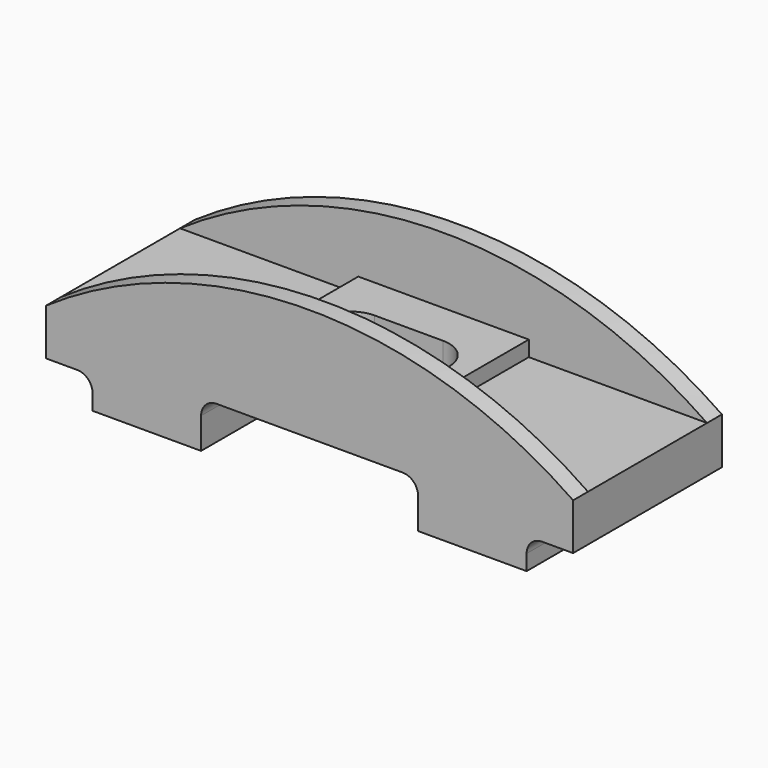
from build123d import *

# Parameters (mm, degrees)
F1_DEPTH = 60
F3_DEPTH = 6
F5_DEPTH = 6
F7_DEPTH = 5
F9_DEPTH = 30.001


with BuildPart() as f1:
    # F0 (on Front) → F1 (new body)
    with BuildSketch(Plane.XZ):
        with BuildLine():
            Line((35, -30), (70, -30))
            Line((70, -30), (70, -25))
            ThreePointArc((70, -25), (71.4644660941, -21.4644660941), (75, -20))
            Line((75, -20), (85, -20))
            Line((85, -20), (85, -5))
            Line((85, -5), (-85, -5))
            Line((-85, -5), (-85, -20))
            Line((-85, -20), (-75, -20))
            ThreePointArc((-75, -20), (-71.4644660941, -21.4644660941), (-70, -25))
            Line((-70, -25), (-70, -30))
            Line((-70, -30), (-35, -30))
            Line((-35, -30), (-35, -20))
            ThreePointArc((-35, -20), (-33.5355339059, -16.4644660941), (-30, -15))
            Line((-30, -15), (30, -15))
            ThreePointArc((30, -15), (33.5355339059, -16.4644660941), (35, -20))
            Line((35, -20), (35, -30))
        make_face()
    extrude(amount=F1_DEPTH)

    # F2 (on face) → F3 (join)
    with BuildSketch(Plane(origin=(0, 0, 0), x_dir=(-1, 0, 0), z_dir=(0, 1, 0))):
        with BuildLine():
            Line((-85, -5), (85, -5))
            ThreePointArc((85, -5), (0, 21.4079290569), (-85, -5))
        make_face()
    extrude(amount=-F3_DEPTH)

    # F4 (on face) → F5 (join)
    with BuildSketch(Plane.XZ.offset(60)):
        with BuildLine():
            Line((-85, -5), (85, -5))
            ThreePointArc((85, -5), (0, 21.4079290569), (-85, -5))
        make_face()
    extrude(amount=-F5_DEPTH)

    # F6 (on face) → F7 (join)
    with BuildSketch(Plane.XY.offset(-5)):
        Polygon((27.5, -54), (27.5, -6), (0, -6), (-27.5, -6), (-27.5, -54), align=None)
    extrude(amount=F7_DEPTH)

    # F8 (on face) → F9 (cut, through all)
    with BuildSketch(Plane.XY):
        with BuildLine():
            Line((11, -20), (0, -20))
            Line((0, -20), (0, -30))
            Line((0, -30), (1, -30))
            ThreePointArc((1, -30), (3.9289321881, -22.9289321881), (11, -20))
        make_face()
        with BuildLine():
            Line((0, -30), (0, -20))
            Line((0, -20), (-11, -20))
            ThreePointArc((-11, -20), (-3.9289321881, -22.9289321881), (-1, -30))
            Line((-1, -30), (0, -30))
        make_face()
        with BuildLine():
            Line((1, -30), (0, -30))
            Line((0, -30), (0, -40))
            Line((0, -40), (11, -40))
            ThreePointArc((11, -40), (3.9289321881, -37.0710678119), (1, -30))
        make_face()
        with BuildLine():
            Line((0, -40), (0, -30))
            Line((0, -30), (-1, -30))
            ThreePointArc((-1, -30), (-3.9289321881, -37.0710678119), (-11, -40))
            Line((-11, -40), (0, -40))
        make_face()
        with BuildLine():
            Line((-11, -30), (-11, -20))
            ThreePointArc((-11, -20), (-21, -30), (-11, -40))
            Line((-11, -40), (-11, -30))
        make_face()
        with BuildLine():
            ThreePointArc((-1, -30), (-3.9289321881, -22.9289321881), (-11, -20))
            Line((-11, -20), (-11, -30))
            Line((-11, -30), (-1, -30))
        make_face()
        with BuildLine():
            Line((11, -30), (11, -20))
            ThreePointArc((11, -20), (3.9289321881, -22.9289321881), (1, -30))
            Line((1, -30), (11, -30))
        make_face()
        with BuildLine():
            ThreePointArc((21, -30), (18.0710678119, -22.9289321881), (11, -20))
            Line((11, -20), (11, -30))
            Line((11, -30), (11, -40))
            ThreePointArc((11, -40), (18.0710678119, -37.0710678119), (21, -30))
        make_face()
        with BuildLine():
            Line((11, -30), (1, -30))
            ThreePointArc((1, -30), (3.9289321881, -37.0710678119), (11, -40))
            Line((11, -40), (11, -30))
        make_face()
        with BuildLine():
            ThreePointArc((-11, -40), (-3.9289321881, -37.0710678119), (-1, -30))
            Line((-1, -30), (-11, -30))
            Line((-11, -30), (-11, -40))
        make_face()
    extrude(amount=-F9_DEPTH, mode=Mode.SUBTRACT)


solid = f1.part
